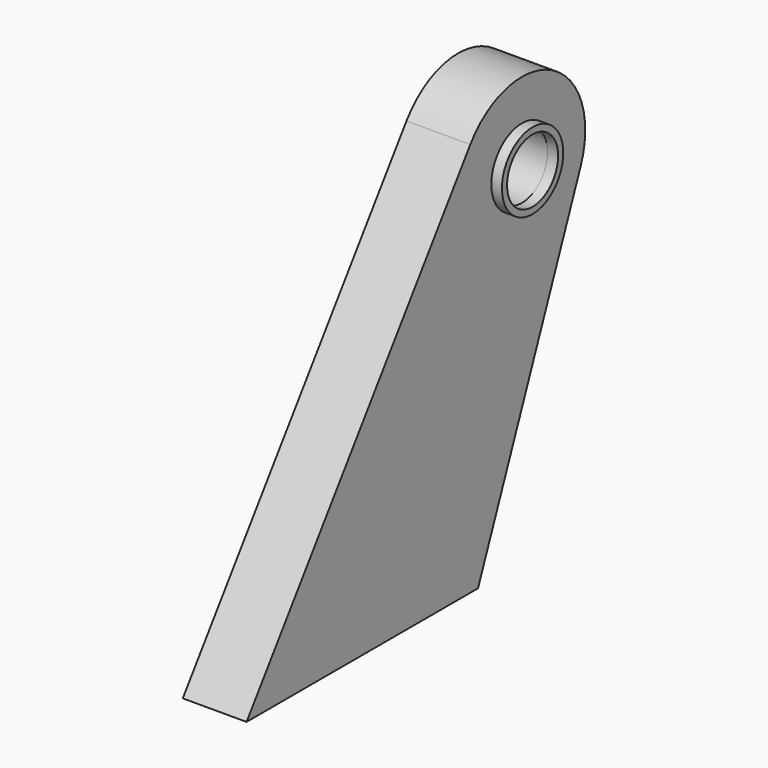
from build123d import *

# Parameters (mm, degrees)
SKETCH024_R     = 4.8895
PAD013_DEPTH    = 9.525
SKETCH034_R     = 5.715
SKETCH034_R_2   = 4.7625
PAD018_DEPTH    = 1.587
SKETCH035_R     = 2.286
POCKET013_DEPTH = 4.318
SKETCH073_R     = 2.286
POCKET035_DEPTH = 4.318


with BuildPart() as obj1:
    # Sketch024 → Pad013 (new body)
    with BuildSketch(Plane.YZ.offset(19.05)):
        with BuildLine():
            Line((12.125906, 0), (53.8632737741, 58.8988526596))
            ThreePointArc((74.4593338965, 47.6662832125), (69.1550841602, 62.43917278), (53.8632737741, 58.8988526596))
            Line((74.4593338965, 47.6662832125), (55.305906, 0))
            Line((55.305906, 0), (12.125906, 0))
        make_face()
        with Locations((63.5, 52.07)):
            Circle(SKETCH024_R, mode=Mode.SUBTRACT)
    extrude(amount=PAD013_DEPTH)

    # Sketch034 (on Face6 of Pad013) → Pad018 (join)
    with BuildSketch(Plane(origin=(19.05, 0, 0), x_dir=(0, 1, 0), z_dir=(-1, 0, 0))):
        with Locations((63.5, -52.07)):
            Circle(SKETCH034_R)
        with Locations((63.5, -52.07)):
            Circle(SKETCH034_R_2, mode=Mode.SUBTRACT)
    extrude(amount=PAD018_DEPTH)

    # Sketch035 (on Face3 of Pad018) → Pocket013 (cut)
    with BuildSketch(Plane.YX):
        with Locations((24.85996, 23.8125)):
            Circle(SKETCH035_R)
        with Locations((49.014852994, 23.8125)):
            Circle(SKETCH035_R)
    extrude(amount=-POCKET013_DEPTH, mode=Mode.SUBTRACT)

    # Sketch073 → Pocket035 (cut)
    with BuildSketch(Plane.YZ.offset(28.575)):
        with Locations((43.18, 22.225)):
            Circle(SKETCH073_R)
    extrude(amount=-POCKET035_DEPTH, mode=Mode.SUBTRACT)


with BuildPart() as obj1_1:
    # Body005 placement: moved
    add(obj1.part.moved(Location((-4.57, 7.62, 0))))


with BuildPart() as obj2:
    # Part__Mirroring: instance of obj1
    add(obj1_1.part.mirror(Plane(origin=(0, 0, 0), x_dir=(0, -1, 0), z_dir=(1, 0, 0))))


with BuildPart() as obj2_1:
    # Part__Mirroring placement: moved
    add(obj2.part.moved(Location((9.4, 0, 0))))


solid = obj2_1.part
